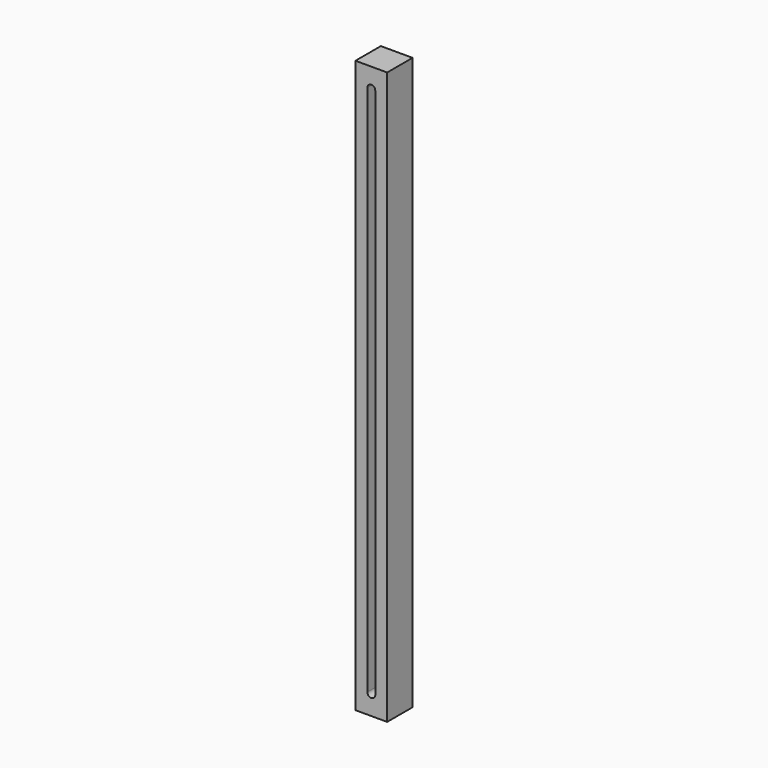
from build123d import *

# Parameters (mm, degrees)
F0_W     = 25.4
F0_H     = 457.2
F1_DEPTH = 25.4


with BuildPart() as f1:
    # F0 (on Front) → F1 (new body)
    with BuildSketch(Plane.XZ):
        with Locations((12.417898, -6.798676)):
            Rectangle(F0_W, F0_H)
        with BuildLine():
            ThreePointArc((9.242898, 205.926324), (12.417898, 209.101324), (15.592898, 205.926324))
            Line((15.592898, 205.926324), (15.592898, -219.523676))
            ThreePointArc((15.592898, -219.523676), (12.417898, -222.698676), (9.242898, -219.523676))
            Line((9.242898, -219.523676), (9.242898, 205.926324))
        make_face(mode=Mode.SUBTRACT)
    extrude(amount=F1_DEPTH)


solid = f1.part
